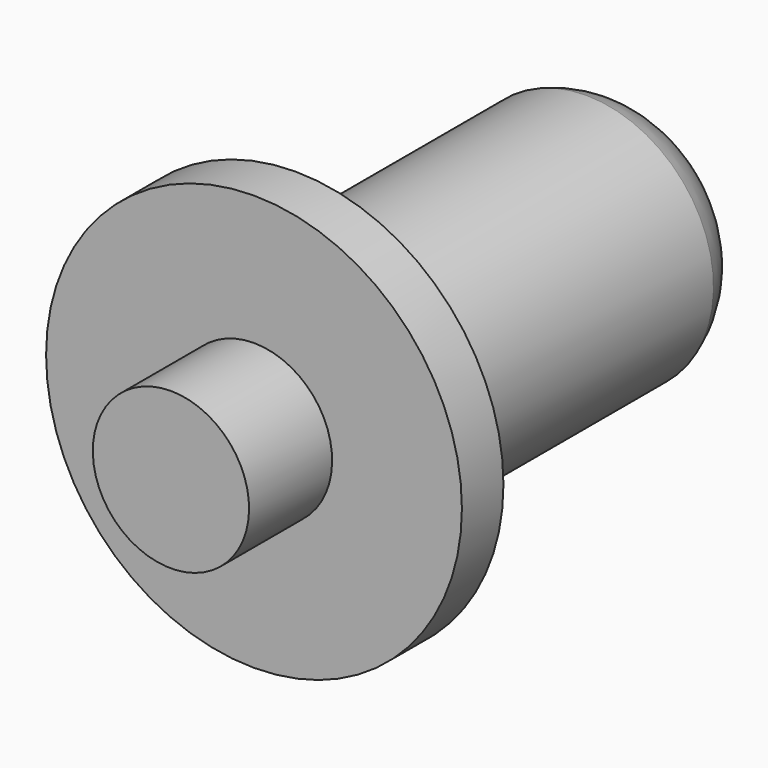
from build123d import *


with BuildPart() as f1:
    # F0 (on Right) → F1 (revolve)
    with BuildSketch(Plane.YZ):
        with BuildLine():
            Line((-2, 1.504770412), (-2, 0))
            Line((-2, 0), (9.5, 0))
            add(Edge.make_bspline(
                [(8, 2.45), (8.6955977604, 2.2305608727), (9.2895837523, 1.318056569), (9.4629809577, 0.4408934937), (9.5, 0)],
                knots=[0, 0, 0, 0, 0.532645082, 1, 1, 1, 1], degree=3))
            Line((8, 2.45), (1, 2.45))
            Line((1, 2.45), (1, 4.004770412))
            Line((1, 4.004770412), (0, 4.004770412))
            Line((0, 4.004770412), (0, 1.504770412))
            Line((0, 1.504770412), (-2, 1.504770412))
        make_face()
    revolve(axis=Axis((0, 3.75, 0), (0, -1, 0)))


solid = f1.part
